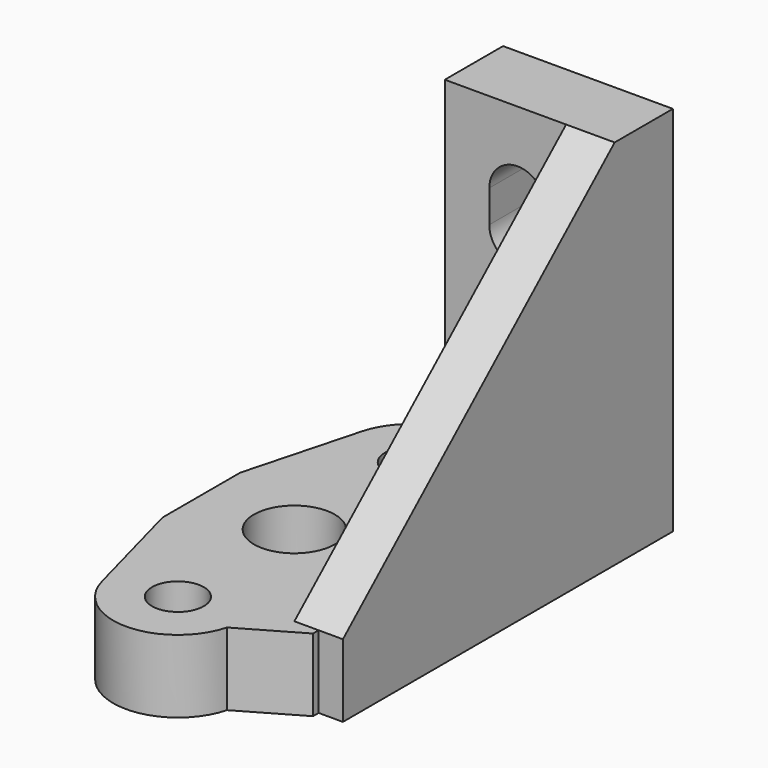
from build123d import *

# Parameters (mm, degrees)
SKETCH016_W   = 9
SKETCH016_H   = 23
PAD005_DEPTH  = 4.5
SKETCH018_R   = 1.6
SKETCH018_R_2 = 2.5
PAD006_DEPTH  = 4.5
PAD011_DEPTH  = 1.5


with BuildPart() as part:
    # Sketch016 → Pad005 (new body)
    with BuildSketch(Plane.XZ):
        with Locations((3, 11.5)):
            Rectangle(SKETCH016_W, SKETCH016_H)
        with BuildLine():
            ThreePointArc((4.75, 18), (3, 19.75), (1.25, 18))
            Line((1.25, 18), (1.25, 16))
            ThreePointArc((1.25, 16), (3, 14.25), (4.75, 16))
            Line((4.75, 16), (4.75, 18))
        make_face(mode=Mode.SUBTRACT)
        with BuildLine():
            ThreePointArc((4.75, 10), (3, 11.75), (1.25, 10))
            Line((1.25, 10), (1.25, 8))
            ThreePointArc((1.25, 8), (3, 6.25), (4.75, 8))
            Line((4.75, 8), (4.75, 10))
        make_face(mode=Mode.SUBTRACT)
    extrude(amount=PAD005_DEPTH)

    # Sketch018 → Pad006 (join)
    with BuildSketch(Plane.XY):
        with BuildLine():
            ThreePointArc((-3.8635384963, -28.0358910598), (0, -31), (3.8635384963, -28.0358910598))
            Line((3.8635384963, -28.0358910598), (7.5, -25.9363790317))
            Line((7.5, -25.9363790317), (7.5, -4.5))
            Line((7.5, -4.5), (7.5, 0))
            Line((-1.5, 0), (7.5, 0))
            Line((-1.5, 0), (-1.5, -4.5))
            Line((-1.5, -4.5), (-1.5, -5.2919007565))
            ThreePointArc((-1.5, -5.2919007565), (-2.9961743014, -6.3499170663), (-3.8635384963, -7.9641089402))
            Line((-5.75, -15), (-3.8635384963, -7.9641089402))
            Line((-5.75, -21), (-5.75, -15))
            Line((-3.8635384963, -28.0358910598), (-5.75, -21))
        make_face()
        with Locations((0, -27)):
            Circle(SKETCH018_R, mode=Mode.SUBTRACT)
        with Locations((0, -9)):
            Circle(SKETCH018_R, mode=Mode.SUBTRACT)
        with Locations((0, -18)):
            Circle(SKETCH018_R_2, mode=Mode.SUBTRACT)
    extrude(amount=PAD006_DEPTH)

    # Sketch034 (on DatumPlane) → Pad011 (join, symmetric)
    with BuildSketch(Plane.YZ.offset(7.5)):
        Polygon((-4.5, 23), (-25.5, 4.5), (-25.5, 0), (0, 0), (0, 23), align=None)
    extrude(amount=PAD011_DEPTH, both=True)


with BuildPart() as part_1:
    # Body002 placement: moved
    add(part.part.moved(Location((-30.5, -6, 8))))


solid = part_1.part
